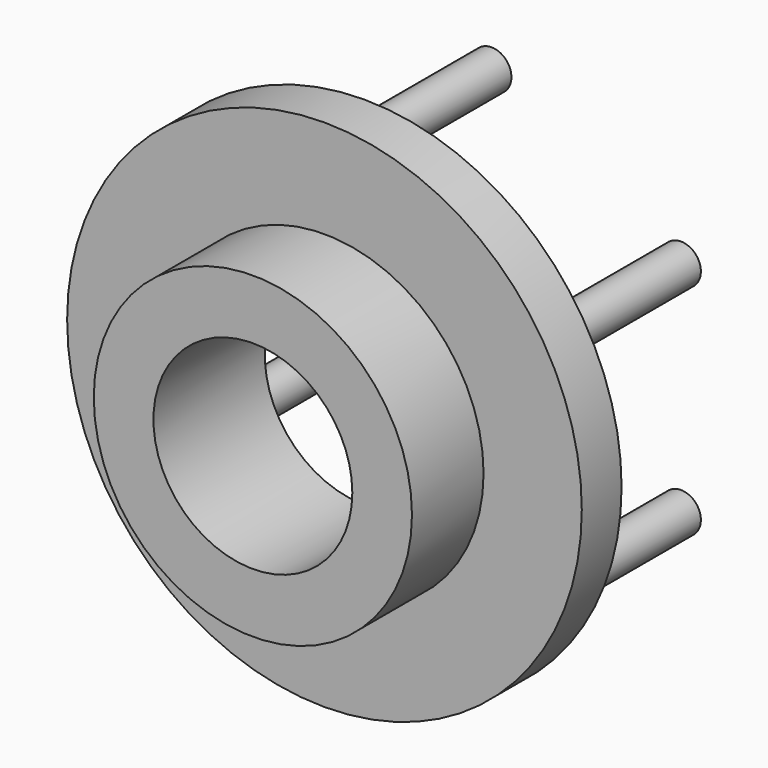
from build123d import *

# Parameters (mm, degrees)
F0_R          = 82.164523
F0_R_2        = 6.35
F0_R_3        = 50.8
F1_DEPTH      = 15.875
F0_R_4        = 31.75
F2_DEPTH      = 44.45
F3_DEPTH      = 15.875
F3_DEPTH_BACK = 50.8


with BuildPart() as f1:
    # F0 (on Front) → F1 (new body)
    with BuildSketch(Plane.XZ):
        Circle(F0_R)
        with Locations((-60.491874, -34.925)):
            Circle(F0_R_2, mode=Mode.SUBTRACT)
        with Locations((0, -69.85)):
            Circle(F0_R_2, mode=Mode.SUBTRACT)
        with Locations((60.491874, -34.925)):
            Circle(F0_R_2, mode=Mode.SUBTRACT)
        with Locations((-60.491874, 34.925)):
            Circle(F0_R_2, mode=Mode.SUBTRACT)
        Circle(F0_R_3, mode=Mode.SUBTRACT)
        with Locations((60.491874, 34.925)):
            Circle(F0_R_2, mode=Mode.SUBTRACT)
        with Locations((0, 69.85)):
            Circle(F0_R_2, mode=Mode.SUBTRACT)
    extrude(amount=F1_DEPTH)

    # F0 (on Front) → F2 (join)
    with BuildSketch(Plane.XZ):
        Circle(F0_R_3)
        Circle(F0_R_4, mode=Mode.SUBTRACT)
    extrude(amount=F2_DEPTH)

    # F0 (on Front) → F3 (join, two sides)
    with BuildSketch(Plane.XZ) as f3_sk:
        with Locations((-60.491874, 34.925)):
            Circle(F0_R_2)
        with Locations((0, 69.85)):
            Circle(F0_R_2)
        with Locations((60.491874, 34.925)):
            Circle(F0_R_2)
        with Locations((60.491874, -34.925)):
            Circle(F0_R_2)
        with Locations((0, -69.85)):
            Circle(F0_R_2)
        with Locations((-60.491874, -34.925)):
            Circle(F0_R_2)
    extrude(amount=F3_DEPTH)
    extrude(f3_sk.sketch, amount=-F3_DEPTH_BACK)


solid = f1.part
